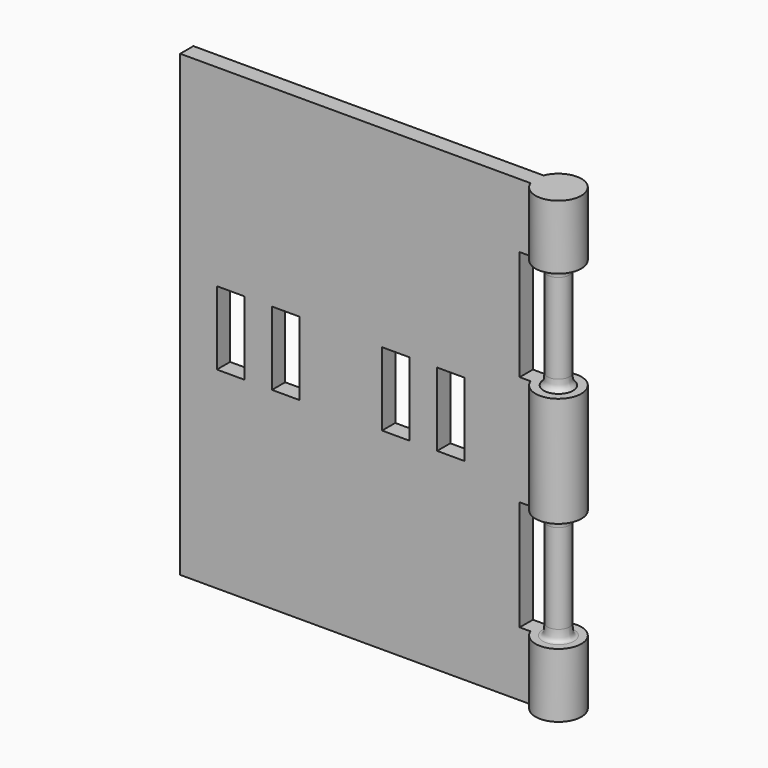
from build123d import *

# Parameters (mm, degrees)
F0_W      = 38
F0_H      = 1.8
F1_DEPTH  = 50
F2_W      = 33.097349
F2_H      = 12
F2_W_2    = 36.357001
F3_DEPTH  = 25
F5_W      = 3
F5_H      = 8
F6_DEPTH  = 1.8
F10_R     = 1.2
F11_DEPTH = 43
F4_W      = 33.097349
F4_H      = 12
F4_W_2    = 36.357002
F14_DEPTH = 1


with BuildPart() as f1:
    # F0 (on Top) → F1 (new body)
    with BuildSketch(Plane.XY):
        with Locations((-19, 0)):
            Rectangle(F0_W, F0_H)
        with BuildLine():
            Line((0.167619, 0.9), (0, 0.9))
            Line((0, 0.9), (0, -0.9))
            Line((0, -0.9), (0.167619, -0.9))
            ThreePointArc((0.167619, -0.9), (5, 0), (0.167619, 0.9))
        make_face()
    extrude(amount=F1_DEPTH)

    # F2 (on Right) → F3 (cut)
    with BuildSketch(Plane.YZ):
        with Locations((2.793991, 37)):
            Rectangle(F2_W, F2_H)
        with Locations((3.725327, 13)):
            Rectangle(F2_W_2, F2_H)
    extrude(amount=F3_DEPTH, mode=Mode.SUBTRACT)

    # F5 (on face) → F6 (cut, through all)
    with BuildSketch(Plane.XZ.offset(0.9)):
        with Locations((-32.5, 25)):
            Rectangle(F5_W, F5_H)
        with Locations((-26.5, 25)):
            Rectangle(F5_W, F5_H)
        with Locations((-14.5, 25)):
            Rectangle(F5_W, F5_H)
        with Locations((-8.5, 25)):
            Rectangle(F5_W, F5_H)
    extrude(amount=-F6_DEPTH, mode=Mode.SUBTRACT)

    # F8 (on Front) → F9 (revolve)
    with BuildSketch(Plane.XZ):
        with BuildLine():
            add(Edge.make_bspline(
                [(3.7, 32.2), (3.704607, 31.503535), (3.733649, 31.405747), (4.1, 31)],
                knots=[0, 0, 0, 0, 1.264911, 1.264911, 1.264911, 1.264911], degree=3))
            Line((3.7, 32.2), (2.5, 32.2))
            Line((2.5, 32.2), (2.5, 31))
            Line((2.5, 31), (4.1, 31))
        make_face()
        with BuildLine():
            Line((2.5, 8.2), (2.5, 7))
            Line((2.5, 7), (4.2, 7))
            add(Edge.make_bspline(
                [(4.2, 7), (3.710281, 7), (3.725807, 7.664207), (3.7, 8.2)],
                knots=[0, 0, 0, 0, 1.3, 1.3, 1.3, 1.3], degree=3))
            Line((3.7, 8.2), (2.5, 8.2))
        make_face()
    revolve(axis=Axis((2.5, 0, 31.6), (0, 0, 1)))

    # F10 (on face) → F11 (join, through all)
    with BuildSketch(Plane(origin=(0, 0, 0), x_dir=(1, 0, 0), z_dir=(0, 0, -1))):
        with Locations((2.5, 0)):
            Circle(F10_R)
    extrude(amount=-F11_DEPTH)

    # F12 (on Front) → F13 (revolve)
    with BuildSketch(Plane.XZ):
        with BuildLine():
            Line((4.2, 43), (2.5, 43))
            Line((2.5, 43), (2.5, 41.8))
            Line((2.5, 41.8), (3.7, 41.8))
            add(Edge.make_bspline(
                [(4.2, 43), (3.697237, 42.880607), (3.698886, 42.436921), (3.7, 41.8)],
                knots=[0, 0, 0, 0, 1.3, 1.3, 1.3, 1.3], degree=3))
        make_face()
        with BuildLine():
            Line((4.2, 19), (2.5, 19))
            Line((2.5, 19), (2.5, 17.8))
            Line((2.5, 17.8), (3.7, 17.8))
            add(Edge.make_bspline(
                [(4.2, 19), (3.697237, 18.880607), (3.698886, 18.436921), (3.7, 17.8)],
                knots=[0, 0, 0, 0, 1.3, 1.3, 1.3, 1.3], degree=3))
        make_face()
    revolve(axis=Axis((2.5, 0, 42.4), (0, 0, -1)))

    # F4 (on Right) → F14 (cut)
    with BuildSketch(Plane.YZ):
        with Locations((-0.465668, 37)):
            Rectangle(F4_W, F4_H)
        with Locations((0.465667, 13)):
            Rectangle(F4_W_2, F4_H)
    extrude(amount=-F14_DEPTH, mode=Mode.SUBTRACT)


solid = f1.part
